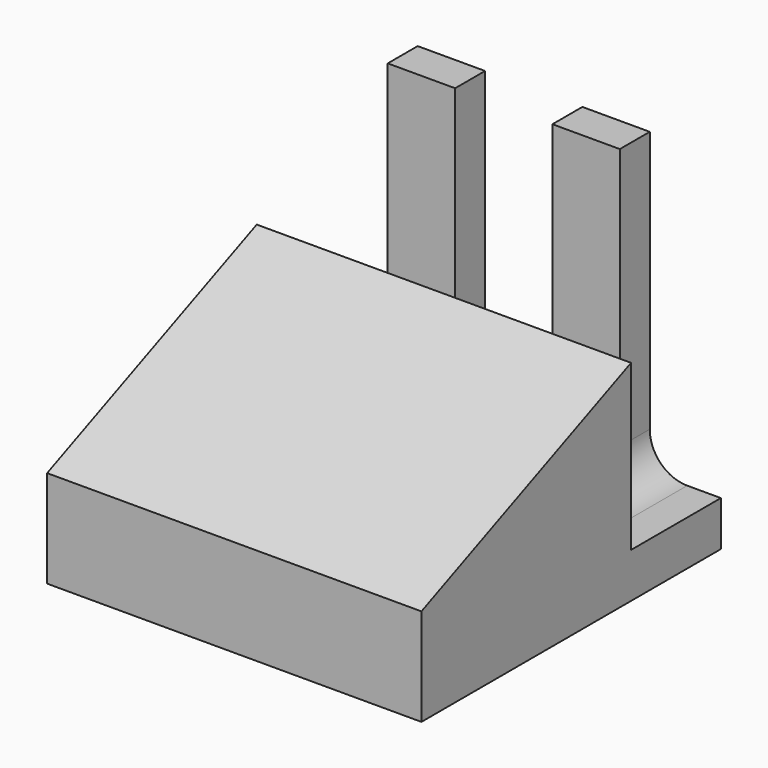
from build123d import *

# Parameters (mm, degrees)
F1_DEPTH = 25
F3_DEPTH = 2.5
F4_R     = 2.5


with BuildPart() as f1:
    # F0 (on Right) → F1 (new body)
    with BuildSketch(Plane.YZ):
        Polygon((0, 0), (0, 23), (-2.5, 23), (-2.5, 3), (-7.5, 3), (-7.5, 14), (-25, 6.5), (-25, 0), align=None)
    extrude(amount=F1_DEPTH)

    # F2 (on face) → F3 (cut, through all)
    with BuildSketch(Plane(origin=(0, 0, 0), x_dir=(-1, 0, 0), z_dir=(0, 1, 0))):
        Polygon((-25, 23), (-25, 3), (-20.25, 3), (-20.25, 22.99), (-15.75, 22.99), (-15.75, 3), (-12.5, 3), (-9.25, 3), (-9.25, 22.99), (-4.75, 22.99), (-4.75, 3), (0, 3), (0, 23), align=None)
    extrude(amount=-F3_DEPTH, mode=Mode.SUBTRACT)

    # F4
    f4_edges = [f1.edges().sort_by_distance(p)[0] for p in [
        (20.25, -1.25, 3),
        (18, -2.5, 3),
        (7, -2.5, 3),
        (9.25, -1.25, 3),
        (15.75, -1.25, 3),
        (4.75, -1.25, 3),
    ]]
    fillet(f4_edges, radius=F4_R)


solid = f1.part
